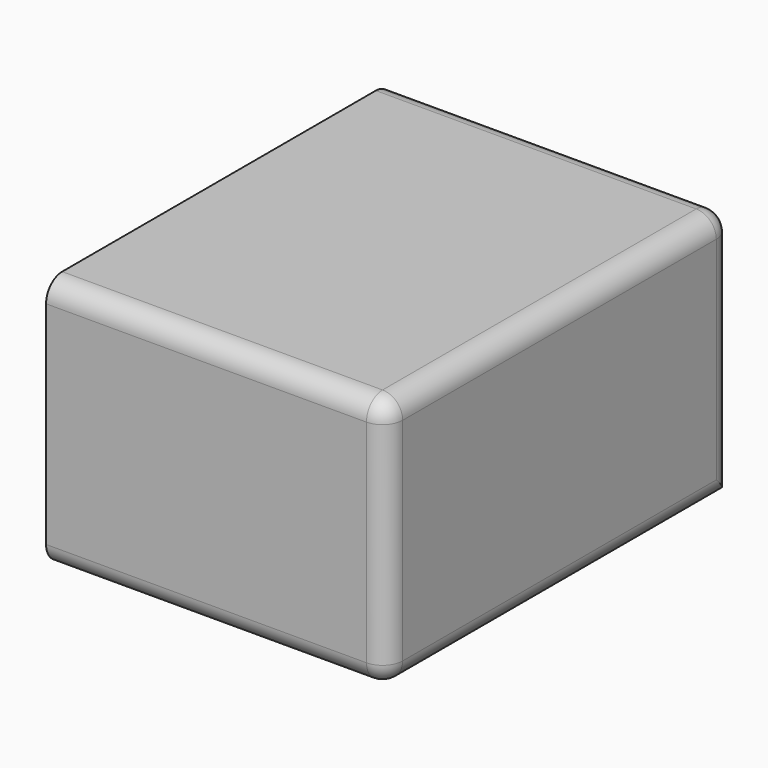
from build123d import *

# Parameters (mm, degrees)
F0_W     = 84.656242
F0_H     = 62.675737
F1_DEPTH = 107.468396
F2_R     = 5


with BuildPart() as f1:
    # F0 (on Front) → F1 (new body)
    with BuildSketch(Plane.XZ):
        with Locations((-9.351572, 31.337868)):
            Rectangle(F0_W, F0_H)
        with Locations((-9.351572, 31.337868)):
            Rectangle(F0_W, F0_H)
    extrude(amount=F1_DEPTH)

    # F2
    f2_edges = [f1.edges().sort_by_distance(p)[0] for p in [
        (32.976549, -53.734198, 0),
        (32.976549, -53.734198, 62.675737),
        (32.976549, 0, 31.337868),
        (32.976549, -107.468396, 31.337868),
        (-9.351572, -107.468396, 62.675737),
        (-9.351572, 0, 62.675737),
        (-9.351572, -107.468396, 0),
    ]]
    fillet(f2_edges, radius=F2_R)


solid = f1.part
